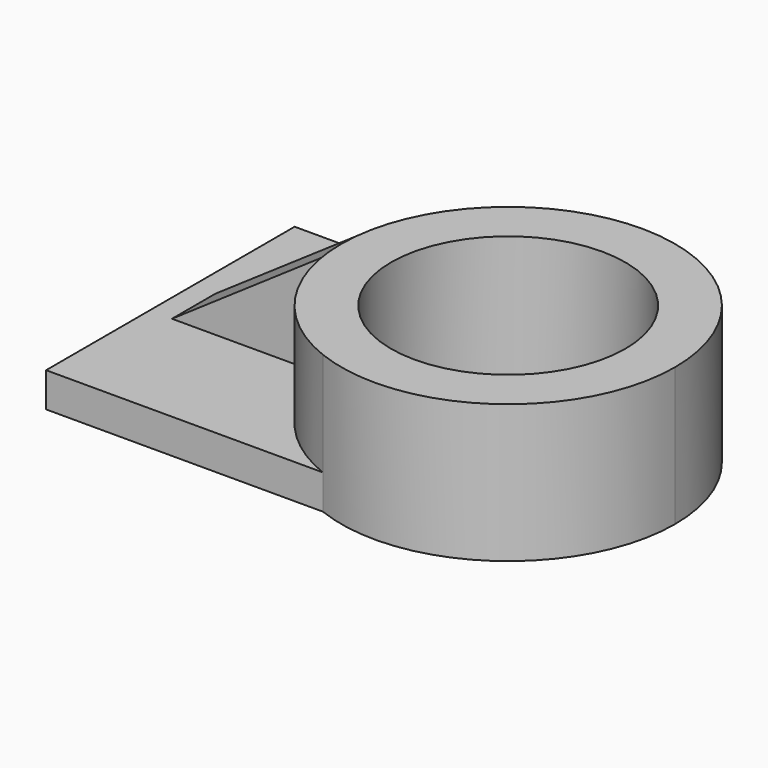
from build123d import *

# Parameters (mm, degrees)
F1_DEPTH = 6.35
F0_R     = 21.5364
F2_DEPTH = 25.4
F3_W     = 27.747467
F3_H     = 9.982902
F4_DEPTH = 18.9484
F6_DEPTH = 25.4


with BuildPart() as f1:
    # F0 (on Top) → F1 (new body)
    with BuildSketch(Plane.XY):
        with BuildLine():
            ThreePointArc((-11.211676, -28.56255), (-30.684213, 0), (-11.211676, 28.56255))
            Line((-11.211676, 28.56255), (-62.113033, 28.56255))
            Line((-62.113033, 28.56255), (-62.113033, -28.56255))
            Line((-62.113033, -28.56255), (-11.211676, -28.56255))
        make_face()
    extrude(amount=F1_DEPTH)

    # F0 (on Top) → F2 (join)
    with BuildSketch(Plane.XY):
        with BuildLine():
            ThreePointArc((-11.211676, -28.56255), (17.284379, -25.352933), (30.684213, 0))
            ThreePointArc((30.684213, 0), (17.284379, 25.352933), (-11.211676, 28.56255))
            ThreePointArc((-11.211676, 28.56255), (-30.684213, 0), (-11.211676, -28.56255))
        make_face()
        Circle(F0_R, mode=Mode.SUBTRACT)
    extrude(amount=F2_DEPTH)

    # F3 (on face) → F4 (join)
    with BuildSketch(Plane.XY.offset(6.35)):
        with Locations((-44.115293, 0.20172)):
            Rectangle(F3_W, F3_H)
    extrude(amount=F4_DEPTH)

    # F5 (on face) → F6 (cut)
    with BuildSketch(Plane.XZ.offset(4.789731)):
        Polygon((-57.989027, 6.35), (-30.308075, 25.2984), (-57.989027, 25.2984), align=None)
    extrude(amount=-F6_DEPTH, mode=Mode.SUBTRACT)


solid = f1.part
